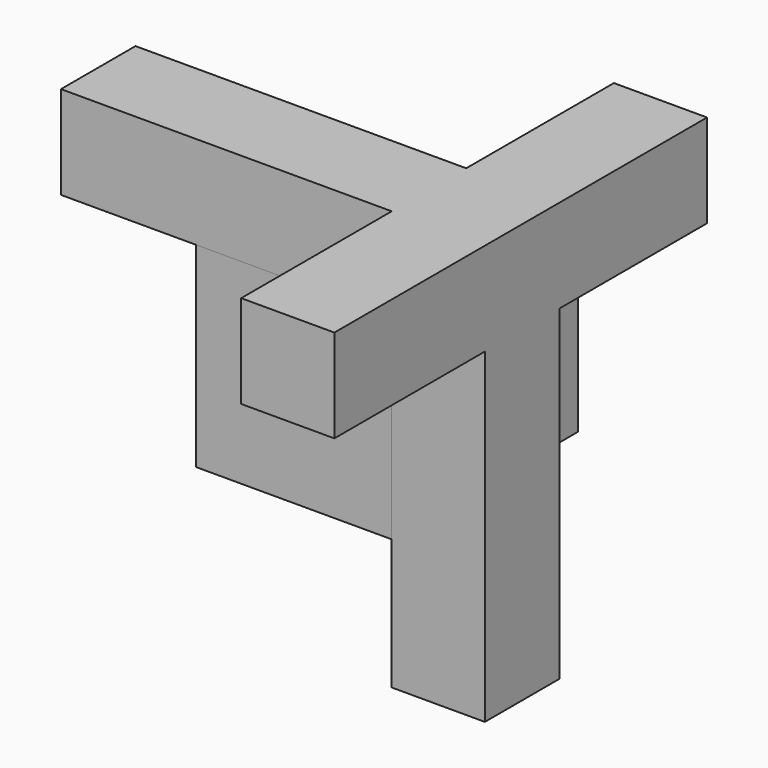
from build123d import *

# Parameters (mm, degrees)
F0_W     = 20
F0_H     = 20
F1_DEPTH = 100
F2_W     = 20
F2_H     = 20
F3_DEPTH = 71
F4_W     = 20
F4_H     = 20
F5_DEPTH = 70
F7_W     = 42
F7_H     = 42
F7_R     = 13.107591
F8_DEPTH = 50


with BuildPart() as f1:
    # F0 (on Front) → F1 (new body)
    with BuildSketch(Plane.XZ):
        Rectangle(F0_W, F0_H)
    extrude(amount=F1_DEPTH)

    # F2 (on face) → F3 (join)
    with BuildSketch(Plane(origin=(-10, 0, 0), x_dir=(0, -1, 0), z_dir=(-1, 0, 0))):
        with Locations((49.614405, 0)):
            Rectangle(F2_W, F2_H)
    extrude(amount=F3_DEPTH)

    # F4 (on face) → F5 (join)
    with BuildSketch(Plane(origin=(0, 0, -10), x_dir=(1, 0, 0), z_dir=(0, 0, -1))):
        with Locations((0, 49.614405)):
            Rectangle(F4_W, F4_H)
    extrude(amount=F5_DEPTH)


with BuildPart() as f8:
    # F7 (on face) → F8 (new body)
    with BuildSketch(Plane.XZ.offset(59.614405)):
        with Locations((-31, -31)):
            Rectangle(F7_W, F7_H)
        with Locations((-31, -31)):
            Circle(F7_R, mode=Mode.SUBTRACT)
        with Locations((-31, -31)):
            Circle(F7_R)
    extrude(amount=-F8_DEPTH)


solid = Compound([f1.part, f8.part])
